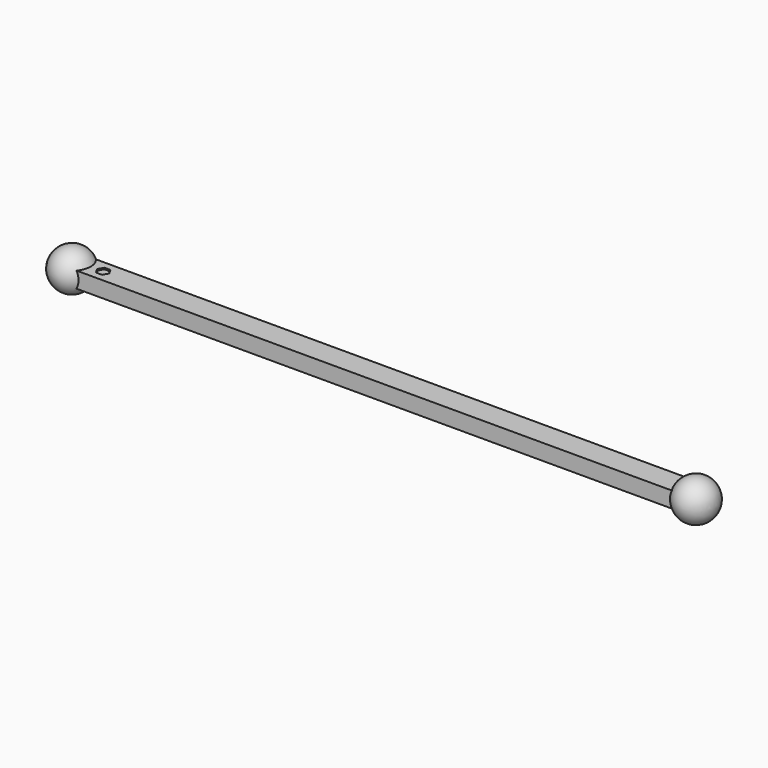
from build123d import *

# Parameters (mm, degrees)
PAD_DEPTH    = 0.245
POCKET_DEPTH = 0.05


with BuildPart() as part:
    # Sketch → Pad (new body, symmetric)
    with BuildSketch(Plane.XY):
        with BuildLine():
            Line((0, 0.375), (19.21, 0.375))
            ThreePointArc((19.21, -0.375), (19.585, 0), (19.21, 0.375))
            Line((19.21, -0.375), (0, -0.375))
            ThreePointArc((0, 0.375), (-0.375, 0), (0, -0.375))
        make_face()
    extrude(amount=PAD_DEPTH, both=True)

    # Sketch001 → Revolution (revolve)
    with BuildSketch(Plane.XY):
        with BuildLine():
            Line((0, 0.625), (0, 0))
            Line((0, 0), (0, -0.625))
            ThreePointArc((0, 0.625), (-0.625, 0), (0, -0.625))
        make_face()
    revolve(axis=Axis((0, 0, 0), (0, -1, 0)))

    # Sketch002 → Revolution001 (revolve)
    with BuildSketch(Plane.XY):
        with BuildLine():
            ThreePointArc((19.21, -0.625), (19.835, 0), (19.21, 0.625))
            Line((19.21, 0.625), (19.21, 0))
            Line((19.21, 0), (19.21, -0.625))
        make_face()
    revolve(axis=Axis((19.21, 0, 0), (0, -1, 0)))

    # Sketch003 (on DatumPlane) → Pocket (cut)
    with BuildSketch(Plane.XY.offset(0.25)):
        Polygon((1.05425, -0.16238), (1.148, 0), (1.05425, 0.16238), (0.86675, 0.16238), (0.773, 0), (0.86675, -0.16238), align=None)
    extrude(amount=-POCKET_DEPTH, mode=Mode.SUBTRACT)


solid = part.part
